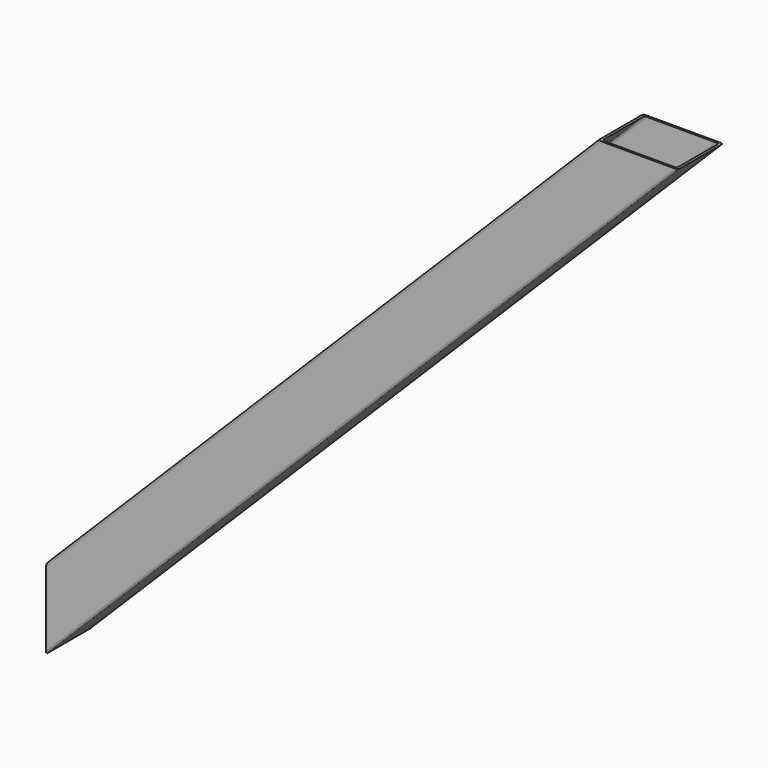
from build123d import *

# Parameters (mm, degrees)
F3_W          = 50.8
F3_H          = 50.8
F3_W_2        = 47.498
F3_H_2        = 47.498
F4_DEPTH      = 25.4
F4_DEPTH_BACK = 787.4
F0_W          = 1524
F0_H          = 762
F0_W_2        = 1422.4
F0_H_2        = 660.4
F5_DEPTH      = 63.5
F6_R          = 1.651
F7_R          = 1.651


with BuildPart() as f4:
    # F3 (on line) → F4 (new body, two sides)
    with BuildSketch(Plane(origin=(-457.2, 0, -457.2), x_dir=(0.7071067812, 0, -0.7071067812), z_dir=(0.7071067812, 0, 0.7071067812))) as f4_sk:
        with Locations((-359.2102448428, 0)):
            Rectangle(F3_W, F3_H)
        with Locations((-359.2102448428, 0)):
            Rectangle(F3_W_2, F3_H_2, mode=Mode.SUBTRACT)
    extrude(amount=-F4_DEPTH)
    extrude(f4_sk.sketch, amount=F4_DEPTH_BACK)

    # F0 (on Front) → F5 (cut, symmetric)
    with BuildSketch(Plane.XZ):
        Rectangle(F0_W, F0_H)
        Rectangle(F0_W_2, F0_H_2, mode=Mode.SUBTRACT)
    extrude(amount=F5_DEPTH, both=True, mode=Mode.SUBTRACT)

    # F6
    f6_edges = [f4.edges().sort_by_distance(p)[0] for p in [
        (-462.460512, -25.4, 81.460512),
        (-462.460512, 25.4, 81.460512),
        (-426.539488, 25.4, 45.539488),
        (-426.539488, -25.4, 45.539488),
    ]]
    fillet(f6_edges, radius=F6_R)

    # F7
    f7_edges = [f4.edges().sort_by_distance(p)[0] for p in [
        (-427.706921, 23.749, 46.706921),
        (-427.706921, -23.749, 46.706921),
        (-461.293079, -23.749, 80.293079),
        (-461.293079, 23.749, 80.293079),
    ]]
    fillet(f7_edges, radius=F7_R)


solid = f4.part
